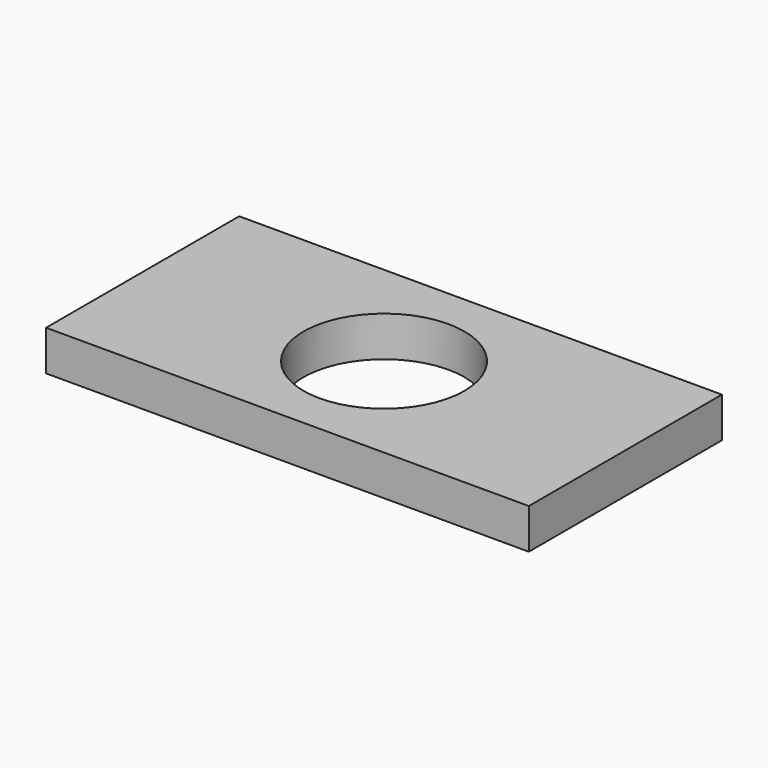
from build123d import *

# Parameters (mm, degrees)
SKETCH_W  = 120
SKETCH_H  = 60
SKETCH_R  = 20
PAD_DEPTH = 10


with BuildPart() as part:
    # Sketch → Pad (new body)
    with BuildSketch(Plane.XY):
        Rectangle(SKETCH_W, SKETCH_H)
        Circle(SKETCH_R, mode=Mode.SUBTRACT)
    extrude(amount=PAD_DEPTH)


solid = part.part
